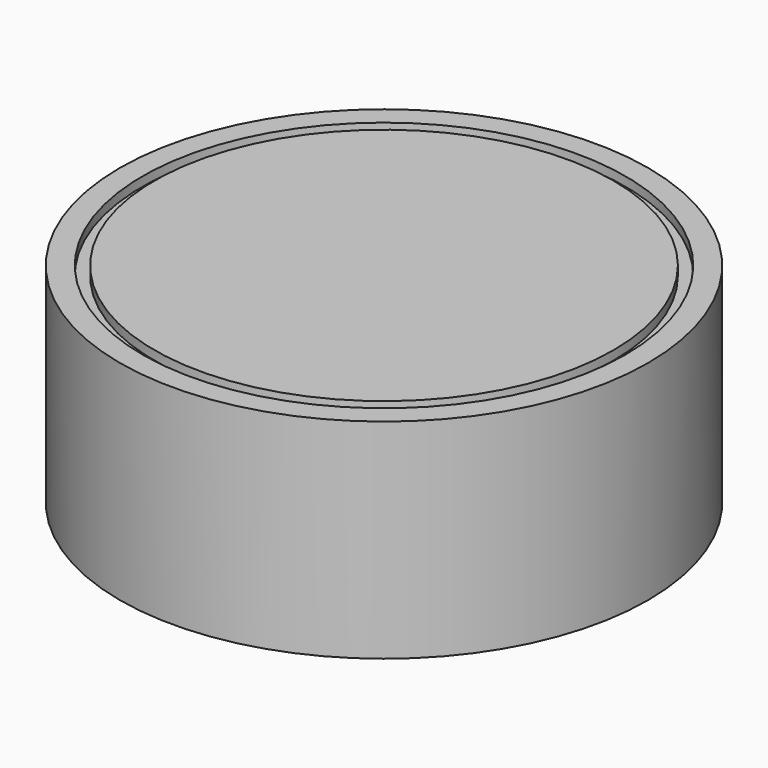
from build123d import *

# Parameters (mm, degrees)
F0_R     = 32.131352
F1_DEPTH = 25.4
F2_R     = 29.382144
F2_R_2   = 27.920941
F3_DEPTH = 1.112144


with BuildPart() as f1:
    # F0 (on Top) → F1 (new body)
    with BuildSketch(Plane.XY):
        Circle(F0_R)
    extrude(amount=F1_DEPTH)

    # F2 (on face) → F3 (cut)
    with BuildSketch(Plane.XY.offset(25.4)):
        Circle(F2_R)
        Circle(F2_R_2, mode=Mode.SUBTRACT)
    extrude(amount=-F3_DEPTH, mode=Mode.SUBTRACT)


solid = f1.part
